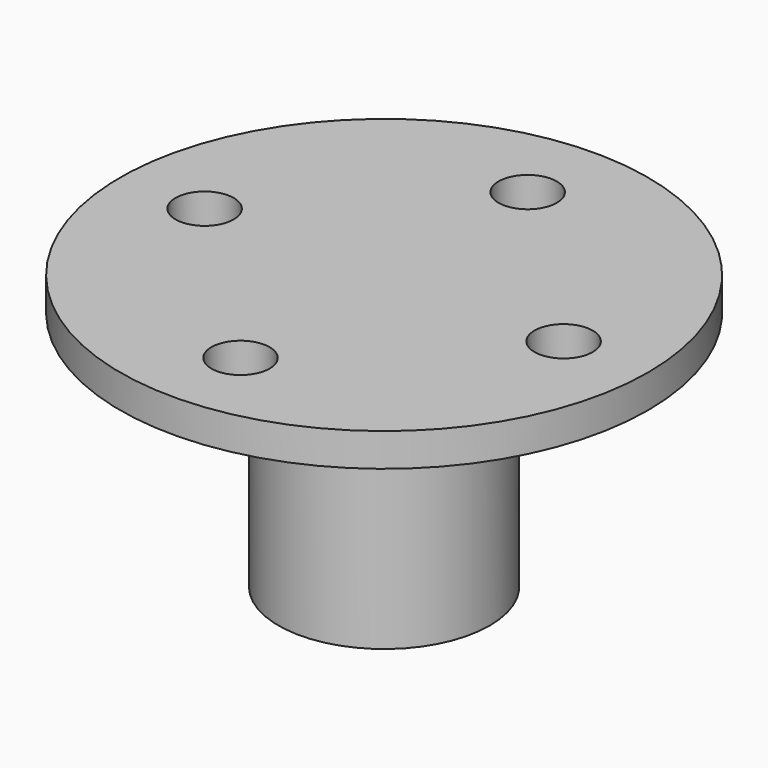
from build123d import *

# Parameters (mm, degrees)
SKETCH_R           = 6.35
PAD_DEPTH          = 14.5
SKETCH001_R        = 1.45
POCKET_DEPTH       = 4.590236
SKETCH002_R        = 15.875
PAD001_DEPTH       = 2
SKETCH003_R        = 1.75
POCKET001_DEPTH    = 5
POLARPATTERN_COUNT = 4


with BuildPart() as part:
    # Sketch → Pad (new body)
    with BuildSketch(Plane.XY):
        Circle(SKETCH_R)
        with BuildLine():
            ThreePointArc((-1.651, 1.759764), (0, -2.413), (1.651, 1.759764))
            Line((-1.651, 1.759764), (1.651, 1.759764))
        make_face(mode=Mode.SUBTRACT)
    extrude(amount=PAD_DEPTH)

    # Sketch001 (on DatumPlane) → Pocket (cut)
    with BuildSketch(Plane.XZ.offset(-1.759764)):
        with Locations((0, 6.5)):
            Circle(SKETCH001_R)
    extrude(amount=-POCKET_DEPTH, mode=Mode.SUBTRACT)

    # Sketch002 (on Face3 of Pocket) → Pad001 (join)
    with BuildSketch(Plane.XY.offset(14.5)):
        Circle(SKETCH002_R)
    extrude(amount=PAD001_DEPTH)

    # Sketch003 (on Face3 of Pad001) → Pocket001 (cut)
    with BuildSketch(Plane.XY.offset(16.5)):
        with Locations((0, 10.795)):
            Circle(SKETCH003_R)
    pocket001 = extrude(amount=-POCKET001_DEPTH, mode=Mode.SUBTRACT)

    # PolarPattern: Pocket001 ×4 about axis
    polarpattern_axis = Axis((0, 0, 16.5), (0, 0, 1))
    for i in range(1, POLARPATTERN_COUNT):
        add(pocket001.rotate(polarpattern_axis, i * 360 / POLARPATTERN_COUNT), mode=Mode.SUBTRACT)


solid = part.part
